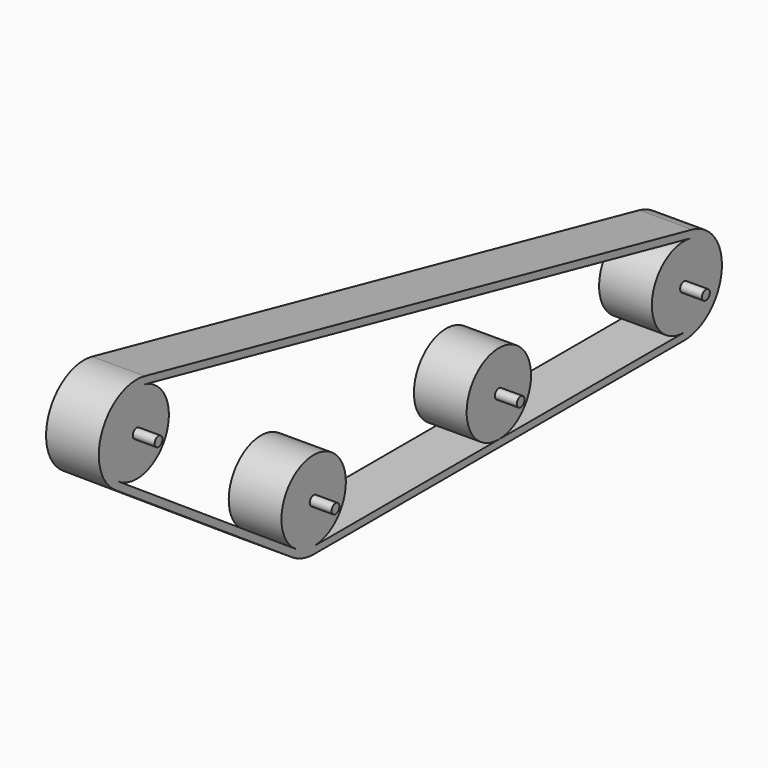
from build123d import *

# Parameters (mm, degrees)
F1_DEPTH = 52.07
F2_R     = 4.826
F3_DEPTH = 21.59
F4_R     = 4.826
F5_DEPTH = 21.59


with BuildPart() as f1:
    # F0 (on Right) → F1 (new body)
    with BuildSketch(Plane.YZ):
        with BuildLine():
            ThreePointArc((-26.146247, -38.768573), (-13.670328, -44.718572), (0, -46.7614))
            Line((0, -46.7614), (457.2, -46.7614))
            ThreePointArc((457.2, -46.7614), (503.692257, -5.009849), (467.162029, 45.687925))
            Line((467.162029, 45.687925), (-208.477971, 193.007925))
            ThreePointArc((-208.477971, 193.007925), (-261.436596, 165.702635), (-244.586247, 108.551427))
            Line((-244.586247, 108.551427), (-26.146247, -38.768573))
        make_face()
        with BuildLine():
            ThreePointArc((0, -39.751), (-11.620893, -38.014429), (-22.22644, -32.956446))
            Line((-22.22644, -32.956446), (-240.66644, 114.363554))
            ThreePointArc((-240.66644, 114.363554), (-254.99061, 162.946737), (-209.971464, 186.158459))
            Line((-209.971464, 186.158459), (465.668536, 38.838459))
            ThreePointArc((465.668536, 38.838459), (488.157832, 24.935008), (496.951, 0))
            ThreePointArc((496.951, 0), (485.308202, -28.108202), (457.2, -39.751))
            Line((457.2, -39.751), (228.6, -39.751))
            Line((228.6, -39.751), (0, -39.751))
        make_face(mode=Mode.SUBTRACT)
        with BuildLine():
            ThreePointArc((268.351, 0), (200.491798, 28.108202), (228.6, -39.751))
            ThreePointArc((228.6, -39.751), (256.708202, -28.108202), (268.351, 0))
        make_face()
        with BuildLine():
            ThreePointArc((465.668536, 38.838459), (417.677794, 4.25878), (457.2, -39.751))
            ThreePointArc((457.2, -39.751), (485.308202, -28.108202), (496.951, 0))
            ThreePointArc((496.951, 0), (488.157832, 24.935008), (465.668536, 38.838459))
        make_face()
        with BuildLine():
            ThreePointArc((0, -39.751), (28.108202, -28.108202), (39.751, 0))
            ThreePointArc((39.751, 0), (-18.663049, 35.097473), (-22.22644, -32.956446))
            ThreePointArc((-22.22644, -32.956446), (-11.620893, -38.014429), (0, -39.751))
        make_face()
        with BuildLine():
            ThreePointArc((-209.971464, 186.158459), (-254.99061, 162.946737), (-240.66644, 114.363554))
            ThreePointArc((-240.66644, 114.363554), (-199.776951, 112.222527), (-178.689, 147.32))
            ThreePointArc((-178.689, 147.32), (-187.482168, 172.255008), (-209.971464, 186.158459))
        make_face()
    extrude(amount=F1_DEPTH)


with BuildPart() as f3:
    # F2 (on face) → F3 (new body)
    with BuildSketch(Plane.YZ.offset(52.07)):
        with Locations((-218.44, 147.32)):
            Circle(F2_R)
        Circle(F2_R)
        with Locations((228.6, 0)):
            Circle(F2_R)
        with Locations((457.2, 0)):
            Circle(F2_R)
    extrude(amount=F3_DEPTH)


with BuildPart() as f5:
    # F4 (on face) → F5 (new body)
    with BuildSketch(Plane(origin=(0, 0, 0), x_dir=(0, -1, 0), z_dir=(-1, 0, 0))):
        with Locations((-457.2, 0)):
            Circle(F4_R)
        with Locations((-228.6, 0)):
            Circle(F4_R)
        Circle(F4_R)
        with Locations((218.44, 147.32)):
            Circle(F4_R)
    extrude(amount=F5_DEPTH)


solid = Compound([f1.part, f3.part, f5.part])
